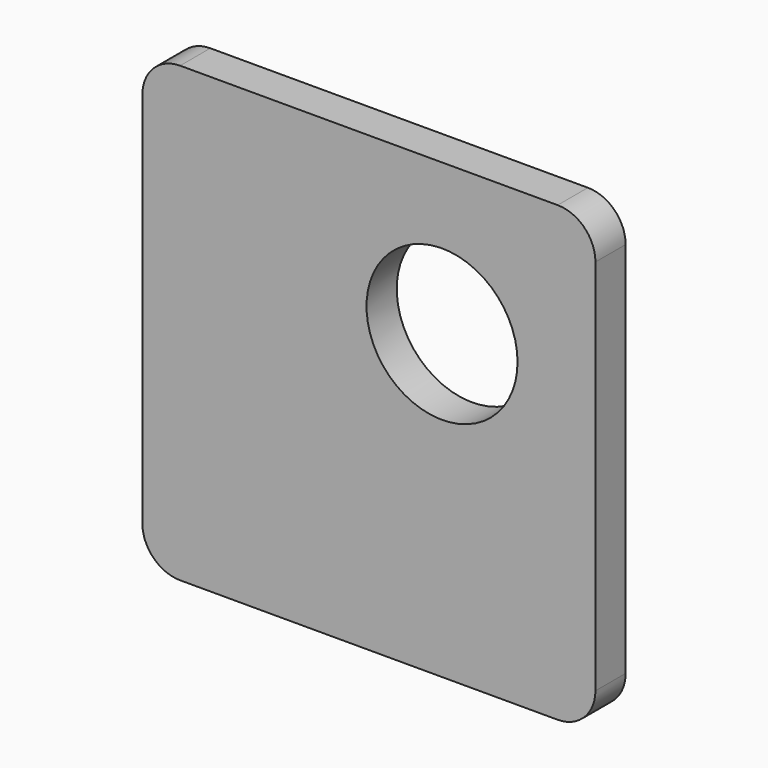
from build123d import *

# Parameters (mm, degrees)
F0_R     = 50
F1_DEPTH = 25


with BuildPart() as f1:
    # F0 (on Front) → F1 (new body)
    with BuildSketch(Plane.XZ):
        with BuildLine():
            ThreePointArc((0, 25), (7.32233, 7.32233), (25, 0))
            Line((25, 0), (275, 0))
            ThreePointArc((275, 0), (292.67767, 7.32233), (300, 25))
            Line((300, 25), (300, 275))
            ThreePointArc((300, 275), (292.67767, 292.67767), (275, 300))
            Line((275, 300), (25, 300))
            ThreePointArc((25, 300), (7.32233, 292.67767), (0, 275))
            Line((0, 275), (0, 25))
        make_face()
        with Locations((198.427558, 199.92201)):
            Circle(F0_R, mode=Mode.SUBTRACT)
        with BuildLine():
            ThreePointArc((0, 25), (7.32233, 7.32233), (25, 0))
            Line((25, 0), (275, 0))
            ThreePointArc((275, 0), (292.67767, 7.32233), (300, 25))
            Line((300, 25), (300, 275))
            ThreePointArc((300, 275), (292.67767, 292.67767), (275, 300))
            Line((275, 300), (25, 300))
            ThreePointArc((25, 300), (7.32233, 292.67767), (0, 275))
            Line((0, 275), (0, 25))
        make_face()
        with Locations((198.427558, 199.92201)):
            Circle(F0_R, mode=Mode.SUBTRACT)
    extrude(amount=F1_DEPTH)


solid = f1.part
